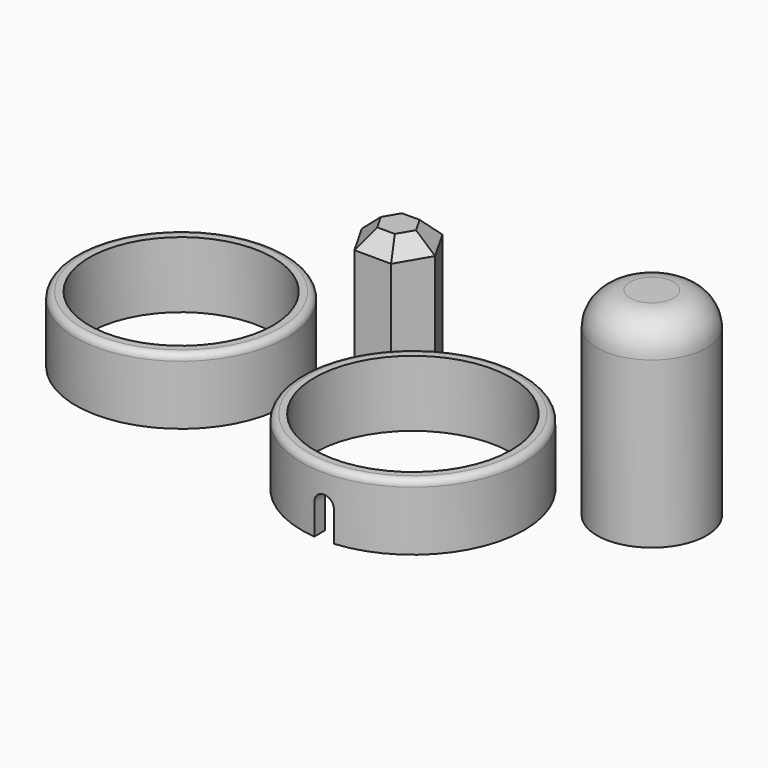
from build123d import *

# Parameters (mm, degrees)
F0_R      = 85.6046340439
F1_DEPTH  = 50.8
F2_R      = 5.08
F3_R      = 75.5523616999
F4_DEPTH  = 50.8
F6_DEPTH  = 101.6
F7_R      = 42.1483813128
F8_DEPTH  = 152.4
F9_R      = 25.4
F10_R     = 81.0688238491
F11_DEPTH = 50.8
F12_R     = 5.08
F13_R     = 70.6445797899
F14_DEPTH = 50.8
F16_DEPTH = 101.6
F17_SIZE  = 12.7


with BuildPart() as f1:
    # F0 (on Top) → F1 (new body)
    with BuildSketch(Plane.XY):
        Circle(F0_R)
    extrude(amount=F1_DEPTH)

    # F2
    f2_edges = [f1.edges().sort_by_distance(p)[0] for p in [
        (-85.604634, 0, 50.8),
    ]]
    fillet(f2_edges, radius=F2_R)

    # F3 (on face) → F4 (cut)
    with BuildSketch(Plane.XY.offset(50.8)):
        Circle(F3_R)
    extrude(amount=-F4_DEPTH, mode=Mode.SUBTRACT)

    # F5 (on Front) → F6 (cut)
    with BuildSketch(Plane.XZ):
        with BuildLine():
            Line((-7.5062415563, 23.6255042255), (-7.5062415563, 0))
            Line((-7.5062415563, 0), (7.5062415563, 0))
            Line((7.5062415563, 0), (7.5062415563, 23.6255042255))
            Line((7.5062415563, 23.6255042255), (7.4425271825, 23.6255042255))
            ThreePointArc((7.4425271825, 23.6255042255), (0, 16.182977043), (-7.4425271825, 23.6255042255))
            Line((-7.4425271825, 23.6255042255), (-7.5062415563, 23.6255042255))
        make_face()
        with BuildLine():
            ThreePointArc((7.4425271825, 23.6255042255), (0, 31.068031408), (-7.4425271825, 23.6255042255))
            Line((-7.4425271825, 23.6255042255), (7.4425271825, 23.6255042255))
        make_face()
        with BuildLine():
            Line((7.4425271825, 23.6255042255), (-7.4425271825, 23.6255042255))
            ThreePointArc((-7.4425271825, 23.6255042255), (0, 16.182977043), (7.4425271825, 23.6255042255))
        make_face()
    extrude(amount=F6_DEPTH, mode=Mode.SUBTRACT)


with BuildPart() as f8:
    # F7 (on Top) → F8 (new body)
    with BuildSketch(Plane.XY):
        with Locations((133.3732753992, 62.8801062703)):
            Circle(F7_R)
    extrude(amount=F8_DEPTH)

    # F9
    f9_edges = [f8.edges().sort_by_distance(p)[0] for p in [
        (91.224894, 62.880106, 152.4),
    ]]
    fillet(f9_edges, radius=F9_R)


with BuildPart() as f11:
    # F10 (on Top) → F11 (new body)
    with BuildSketch(Plane.XY):
        with Locations((-208.0669552088, 37.3833999038)):
            Circle(F10_R)
    extrude(amount=F11_DEPTH)

    # F12
    f12_edges = [f11.edges().sort_by_distance(p)[0] for p in [
        (-289.135779, 37.3834, 50.8),
    ]]
    fillet(f12_edges, radius=F12_R)

    # F13 (on face) → F14 (cut)
    with BuildSketch(Plane.XY.offset(50.8)):
        with Locations((-208.0669552088, 37.3833999038)):
            Circle(F13_R)
    extrude(amount=-F14_DEPTH, mode=Mode.SUBTRACT)


with BuildPart() as f16:
    # F15 (on Top) → F16 (new body)
    with BuildSketch(Plane.XY):
        Polygon((-114.3861618652, 136.1639231941), (-128.6787781105, 111.7473661402), (-114.6797275515, 87.1613188582), (-86.3880607472, 86.9918286303), (-72.0954445019, 111.4083856842), (-86.0944950609, 135.9944329661), align=None)
    extrude(amount=F16_DEPTH)

    # F17
    f17_edges = [f16.edges().sort_by_distance(p)[0] for p in [
        (-121.53247, 123.955645, 101.6),
        (-121.679253, 99.454342, 101.6),
        (-100.533894, 87.076574, 101.6),
        (-79.241753, 99.200107, 101.6),
        (-79.09497, 123.701409, 101.6),
        (-100.240328, 136.079178, 101.6),
    ]]
    chamfer(f17_edges, length=F17_SIZE)


solid = Compound([f1.part, f8.part, f11.part, f16.part])
